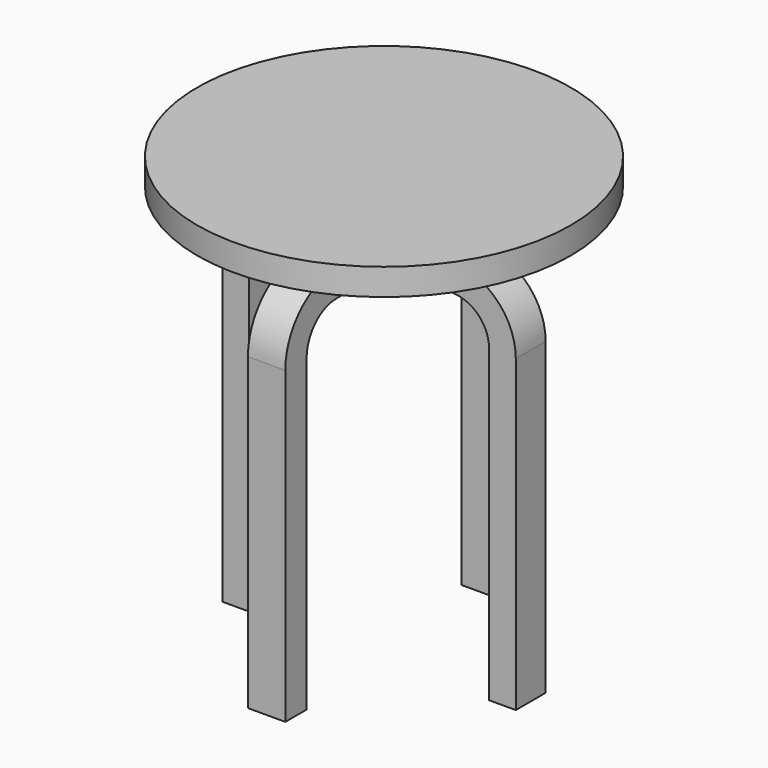
from build123d import *

# Parameters (mm, degrees)
F1_DEPTH = 17.5
F2_COUNT = 2
F2_ANGLE = 90
F4_R     = 175
F5_DEPTH = 25
F6_R     = 12.5
F7_DEPTH = 30
F8_COUNT = 4


with BuildPart() as f1:
    # F0 (on Front) → F1 (new body, symmetric)
    with BuildSketch(Plane.XZ):
        with BuildLine():
            Line((-137.5, 290), (-137.5, 0))
            Line((-137.5, 0), (-112.5, 0))
            Line((-112.5, 0), (-112.5, 290))
            ThreePointArc((-112.5, 290), (-102.248737, 314.748737), (-77.5, 325))
            Line((-77.5, 325), (0, 325))
            Line((0, 325), (77.5, 325))
            ThreePointArc((77.5, 325), (102.248737, 314.748737), (112.5, 290))
            Line((112.5, 290), (112.5, 0))
            Line((112.5, 0), (137.5, 0))
            Line((137.5, 0), (137.5, 290))
            ThreePointArc((137.5, 290), (119.926407, 332.426407), (77.5, 350))
            Line((77.5, 350), (0, 350))
            Line((0, 350), (-77.5, 350))
            ThreePointArc((-77.5, 350), (-119.926407, 332.426407), (-137.5, 290))
        make_face()
    extrude(amount=F1_DEPTH, both=True)

    # F2: F1 ×2 about axis
    f2_axis = Axis((0, 0, 337.5), (0, 0, 1))


with BuildPart() as f1_1:
    add(f1.part)
    for i in range(1, F2_COUNT):
        add(f1.part.rotate(f2_axis, i * F2_ANGLE / (F2_COUNT - 1)))



with BuildPart() as f5:
    # F4 (on offset) → F5 (new body)
    with BuildSketch(Plane.XY.offset(380)):
        Circle(F4_R)
    extrude(amount=F5_DEPTH)


with BuildPart() as f1_2:
    add(f1_1.part)

    add(f5.part)  # F7 merges F5
    # F6 (on face) → F7 (join, through all)
    with BuildSketch(Plane.XY.offset(350)):
        with Locations((-60, 0)):
            Circle(F6_R)
    extrude(amount=F7_DEPTH)

    # F8: F1 ×4 about axis
    f8_axis = Axis((0, 0, 337.5), (0, 0, 1))


with BuildPart() as f1_3:
    add(f1_2.part)
    for i in range(1, F8_COUNT):
        add(f1_2.part.rotate(f8_axis, i * 360 / F8_COUNT))


solid = f1_3.part
